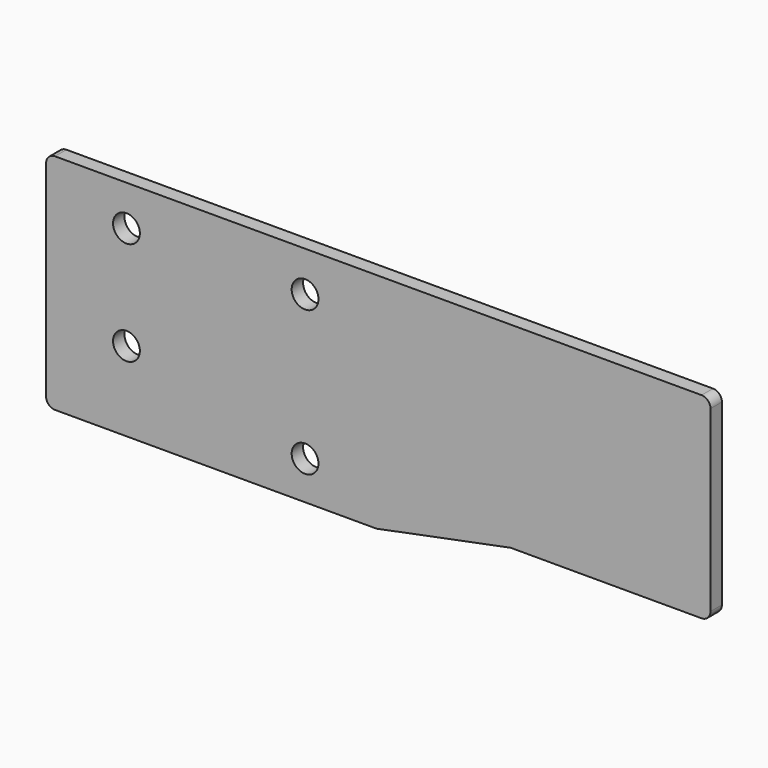
from build123d import *

# Parameters (mm, degrees)
F0_R     = 7.5
F1_DEPTH = 8


with BuildPart() as f1:
    # F0 (on Front) → F1 (new body)
    with BuildSketch(Plane.XZ):
        with BuildLine():
            Line((0, 120), (0, 5))
            ThreePointArc((0, 5), (1.464466, 1.464466), (5, 0))
            Line((5, 0), (185, 0))
            Line((185, 0), (260, 15))
            Line((260, 15), (367, 15))
            ThreePointArc((367, 15), (370.535534, 16.464466), (372, 20))
            Line((372, 20), (372, 120))
            ThreePointArc((372, 120), (370.535534, 123.535534), (367, 125))
            Line((367, 125), (5, 125))
            ThreePointArc((5, 125), (1.464466, 123.535534), (0, 120))
        make_face()
        with Locations((145, 21.5)):
            Circle(F0_R, mode=Mode.SUBTRACT)
        with Locations((45, 44.5)):
            Circle(F0_R, mode=Mode.SUBTRACT)
        with Locations((45, 102.5)):
            Circle(F0_R, mode=Mode.SUBTRACT)
        with Locations((145, 102.5)):
            Circle(F0_R, mode=Mode.SUBTRACT)
    extrude(amount=F1_DEPTH)


solid = f1.part
